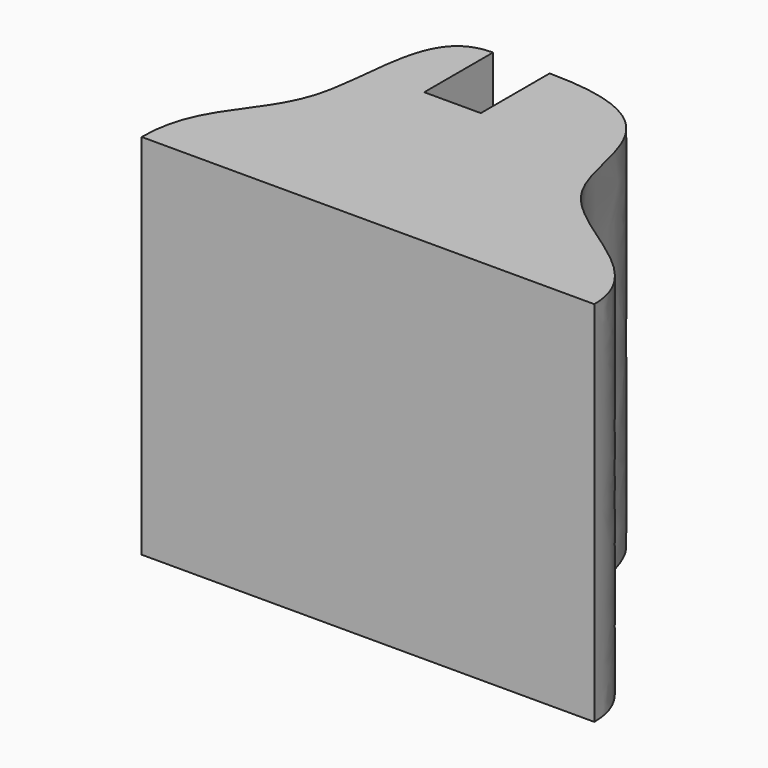
from build123d import *

# Parameters (mm, degrees)
F1_DEPTH = 65


with BuildPart() as f1:
    # F0 (on Top) → F1 (new body)
    with BuildSketch(Plane.XY):
        with BuildLine():
            Line((-32.1052614199, -25), (0, -25))
            Line((0, -25), (47.8947385801, -25))
            add(Edge.make_bspline(
                [(0, 25), (25.659063831, 25), (14.1547425884, -5.6128009824), (47.8947385801, -12.5), (47.8947385801, -25)],
                knots=[0, 0, 0, 0, 0.5085421527, 1, 1, 1, 1], degree=3))
            Line((0, 25), (0, 9.7970971838))
            Line((0, 9.7970971838), (-10, 9.7970971838))
            Line((-10, 9.7970971838), (-10, 25))
            add(Edge.make_bspline(
                [(-10, 25), (-21.1803913116, 25), (-15.7076229836, -6.2145753219), (-32.1052614199, -12.5), (-32.1052614199, -25)],
                knots=[0, 0, 0, 0, 0.5004724774, 1, 1, 1, 1], degree=3))
        make_face()
    extrude(amount=F1_DEPTH)


solid = f1.part
